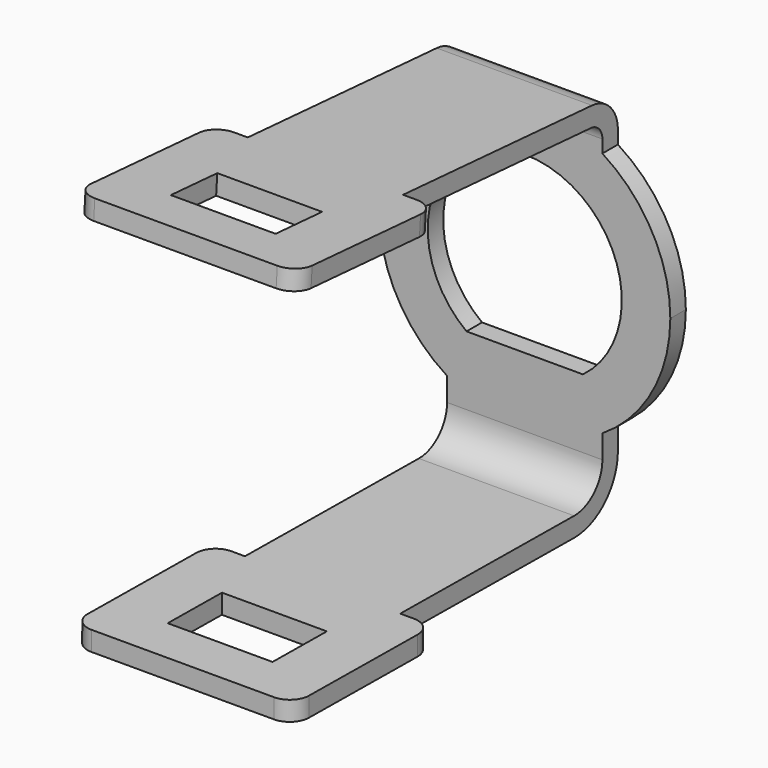
from build123d import *

# Parameters (mm, degrees)
PAD048_DEPTH    = 7.5
SKETCH077_W     = 3.5
SKETCH077_H     = 5.4
POCKET022_DEPTH = 1
SKETCH078_W     = 3
SKETCH078_H     = 5.4
POCKET023_DEPTH = 1
POCKET024_DEPTH = 3
FILLET020_R     = 1


with BuildPart() as part:
    # Sketch076 → Pad048 (new body, symmetric)
    with BuildSketch(Plane.YZ):
        with BuildLine():
            Line((25, -7.5500986951), (25, 7))
            ThreePointArc((25, 7), (24.786034319, 7.5445766952), (24.2585905577, 7.7978515818))
            Line((24.2585905577, 7.7978515818), (3.1155236405, 9.3505013609))
            Line((3.1155236405, 9.3505013609), (3.1887618377, 10.3478158381))
            Line((3.1887618377, 10.3478158381), (24.3318287548, 8.795166059))
            ThreePointArc((26, 7), (25.5185772178, 8.2252975641), (24.3318287548, 8.795166059))
            Line((26, 7), (26, -7.5500986951))
            ThreePointArc((23.1706790045, -10.3499451694), (25.1695051679, -9.540337222), (26, -7.5500986951))
            Line((2.9717865833, -10.1384151302), (23.1706790045, -10.3499451694))
            Line((2.9822583674, -9.1384699609), (2.9717865833, -10.1384151302))
            Line((23.1811507886, -9.35), (2.9822583674, -9.1384699609))
            ThreePointArc((23.1811507886, -9.35), (24.4661104651, -8.8295377481), (25, -7.5500986951))
        make_face()
    extrude(amount=PAD048_DEPTH, both=True)

    # Sketch077 (on Face10 of Pad048) → Pocket022 (cut)
    with BuildSketch(Plane(origin=(0, -0.1058355924, -10.106185168), x_dir=(0, 0.9999451694, -0.0104717841), z_dir=(0, -0.0104717841, -0.9999451694))):
        Polygon((3.0777909329, -5.7), (12.0777909329, -5.7), (12.0777909329, -4), (26.0777909329, -4), (26.0777909329, -7.5), (3.0777909329, -7.5), align=None)
        Polygon((3.0777909329, 5.7), (12.0777909329, 5.7), (12.0777909329, 4), (26.0777909329, 4), (26.0777909329, 7.5), (3.0777909329, 7.5), align=None)
        with Locations((7.2277909329, 0)):
            Rectangle(SKETCH077_W, SKETCH077_H)
    extrude(amount=-POCKET022_DEPTH, mode=Mode.SUBTRACT)

    # Sketch078 (on Face23 of Pocket022) → Pocket023 (cut)
    with BuildSketch(Plane(origin=(0, 0.7729241259, 10.52522387), x_dir=(0, -0.9973144772, 0.0732381971), z_dir=(0, 0.0732381971, 0.9973144772))):
        Polygon((-2.4223429689, 7.5), (-25.4223429689, 7.5), (-25.4223429689, 4), (-11.4223429689, 4), (-11.4223429689, 5.7), (-2.4223429689, 5.7), align=None)
        Polygon((-2.4223429689, -7.5), (-25.4223429689, -7.5), (-25.4223429689, -4), (-11.4223429689, -4), (-11.4223429689, -5.7), (-2.4223429689, -5.7), align=None)
        with Locations((-6.3223429689, 0)):
            Rectangle(SKETCH078_W, SKETCH078_H)
    extrude(amount=-POCKET023_DEPTH, mode=Mode.SUBTRACT)

    # Sketch079 (on Face21 of Pocket023) → Pocket024 (cut)
    with BuildSketch(Plane.ZX.offset(26)):
        with BuildLine():
            ThreePointArc((-6.3442887702, -4), (-3.6228442441, -6.5669627366), (-1.314e-07, -7.5))
            Line((-9.3724594748, -7.5), (-1.314e-07, -7.5))
            Line((-9.3724594748, -4), (-9.3724594748, -7.5))
            Line((-9.3724594748, -4), (-6.3442887702, -4))
        make_face()
        with BuildLine():
            ThreePointArc((3.60745e-05, -7.4999999999), (3.6228599799, -6.5669540554), (6.3442887702, -4))
            Line((9.3724594748, -4), (6.3442887702, -4))
            Line((9.3724594748, -4), (9.3724594748, -7.4999999999))
            Line((9.3724594748, -7.4999999999), (3.60745e-05, -7.4999999999))
        make_face()
        with BuildLine():
            ThreePointArc((-3.60745e-05, 7.4999999999), (-3.6228599799, 6.5669540554), (-6.3442887702, 4))
            Line((-9.3724594748, 4), (-6.3442887702, 4))
            Line((-9.3724594748, 4), (-9.3724594748, 7.4999999999))
            Line((-9.3724594748, 7.4999999999), (-3.60745e-05, 7.4999999999))
        make_face()
        with BuildLine():
            ThreePointArc((6.3442887702, 4), (3.6228599799, 6.5669540554), (3.60745e-05, 7.4999999999))
            Line((9.3724594748, 7.4999999999), (3.60745e-05, 7.4999999999))
            Line((9.3724594748, 4), (9.3724594748, 7.4999999999))
            Line((9.3724594748, 4), (6.3442887702, 4))
        make_face()
        with BuildLine():
            ThreePointArc((-4, -3), (5, 0), (-4, 3))
            Line((-4, 3), (-4, -3))
        make_face()
    extrude(amount=-POCKET024_DEPTH, mode=Mode.SUBTRACT)

    # Fillet020
    fillet020_edges = [part.edges().sort_by_distance(p)[0] for p in [
        (5.7, 2.977022, -9.638443),
        (-5.7, 2.977022, -9.638443),
        (5.7, 3.152143, 9.849159),
        (-5.7, 3.152143, 9.849159),
        (-5.7, 12.127973, 9.190015),
        (5.7, 12.127973, 9.190015),
        (5.7, 11.976529, -9.732689),
        (-5.7, 11.976529, -9.732689),
    ]]
    fillet(fillet020_edges, radius=FILLET020_R)


with BuildPart() as part_1:
    # Body027 placement: moved
    add(part.part.moved(Location((0, 25.7, 0))))


solid = part_1.part
